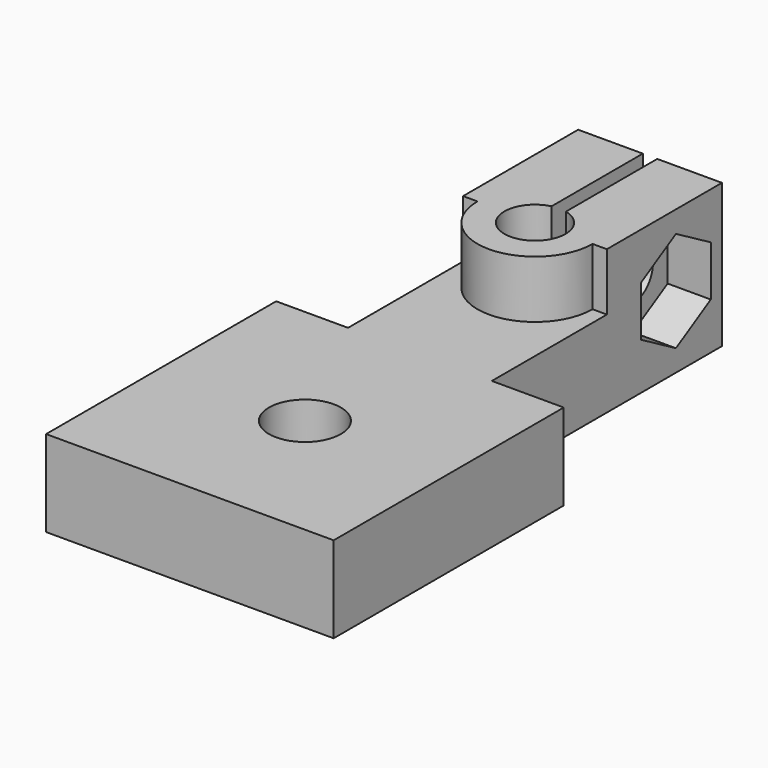
from build123d import *

# Parameters (mm, degrees)
SKETCH_R             = 2.125
SKETCH_R_2           = 2.5
PAD_DEPTH            = 6
SKETCH001_R          = 2.125
PAD001_DEPTH         = 10
SKETCH002_W          = 1
SKETCH002_H          = 20
POCKET_DEPTH         = 10.001
SKETCH003_R          = 1.75
POCKET001_DEPTH      = 10.001
POCKET001_DEPTH_BACK = -10.001
POCKET002_DEPTH      = 3


with BuildPart() as part:
    # Sketch → Pad (new body)
    with BuildSketch(Plane.XY):
        Polygon((-5, 40), (5, 40), (5, 20), (10, 20), (10, 0), (-10, 0), (-10, 20), (-5, 20), align=None)
        with Locations((0, 30)):
            Circle(SKETCH_R, mode=Mode.SUBTRACT)
        with Locations((0, 10)):
            Circle(SKETCH_R_2, mode=Mode.SUBTRACT)
    extrude(amount=PAD_DEPTH)

    # Sketch001 → Pad001 (join)
    with BuildSketch(Plane.XY):
        with BuildLine():
            ThreePointArc((-4, 30), (0, 26), (4, 30))
            Line((4, 30), (5, 30))
            Line((5, 30), (5, 40))
            Line((-5, 40), (5, 40))
            Line((-5, 30), (-5, 40))
            Line((-4, 30), (-5, 30))
        make_face()
        with Locations((0, 30)):
            Circle(SKETCH001_R, mode=Mode.SUBTRACT)
    extrude(amount=PAD001_DEPTH)

    # Sketch002 → Pocket (cut, through all)
    with BuildSketch(Plane.XY):
        with Locations((0, 40)):
            Rectangle(SKETCH002_W, SKETCH002_H)
    extrude(amount=POCKET_DEPTH, mode=Mode.SUBTRACT)

    # Sketch003 → Pocket001 (cut, two sides)
    with BuildSketch(Plane.YZ) as pocket001_sk:
        with Locations((36, 5)):
            Circle(SKETCH003_R)
    extrude(amount=-POCKET001_DEPTH, mode=Mode.SUBTRACT)
    extrude(pocket001_sk.sketch, amount=-POCKET001_DEPTH_BACK, mode=Mode.SUBTRACT)

    # Sketch004 (on Face14 of Pocket001) → Pocket002 (cut)
    with BuildSketch(Plane.YZ.offset(5)):
        Polygon((39.031089, 3.25), (39.031089, 6.75), (36, 8.5), (32.968911, 6.75), (32.968911, 3.25), (36, 1.5), align=None)
    extrude(amount=-POCKET002_DEPTH, mode=Mode.SUBTRACT)


solid = part.part
